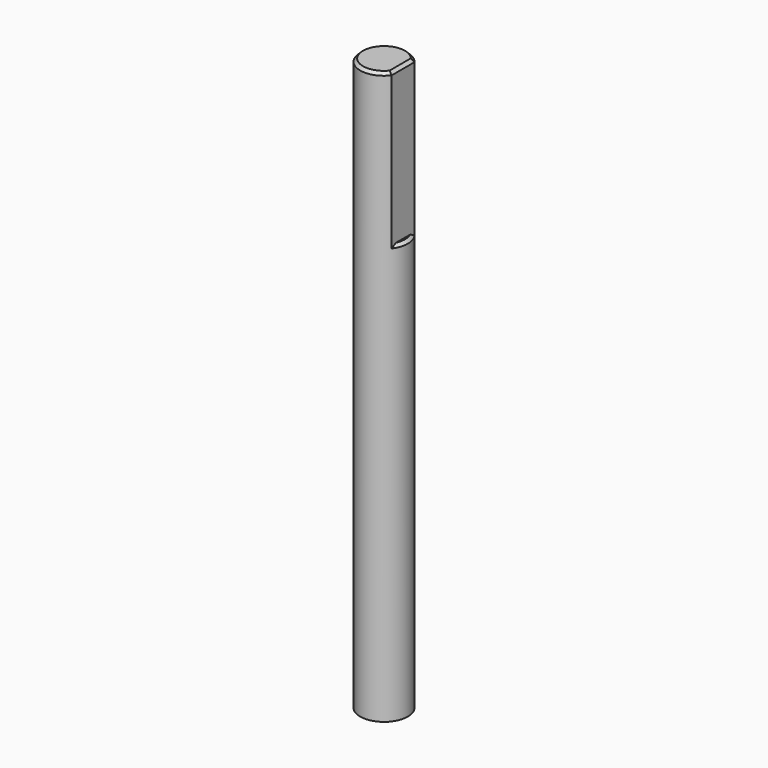
from build123d import *

# Parameters (mm, degrees)
SKETCH051_R     = 2.5
PAD022_DEPTH    = 60
SKETCH046_W     = 4
SKETCH046_H     = 4
POCKET013_DEPTH = 16
CHAMFER009_SIZE = 0.3


with BuildPart() as part:
    # Sketch051 → Pad022 (new body)
    with BuildSketch(Plane.XY):
        Circle(SKETCH051_R)
    extrude(amount=PAD022_DEPTH)

    # Sketch046 (on Face3 of Pad022) → Pocket013 (cut)
    with BuildSketch(Plane.XY.offset(60)):
        with Locations((4, 0)):
            Rectangle(SKETCH046_W, SKETCH046_H)
    extrude(amount=-POCKET013_DEPTH, mode=Mode.SUBTRACT)

    # Chamfer009
    chamfer009_edges = [part.edges().sort_by_distance(p)[0] for p in [
        (2.371708, -0.790569, 44),
        (-2.5, 0, 60),
        (2, 0, 60),
    ]]
    chamfer(chamfer009_edges, length=CHAMFER009_SIZE)


with BuildPart() as part_1:
    # Body011 placement: moved
    add(part.part.moved(Location((0, 0, 2))))


solid = part_1.part
